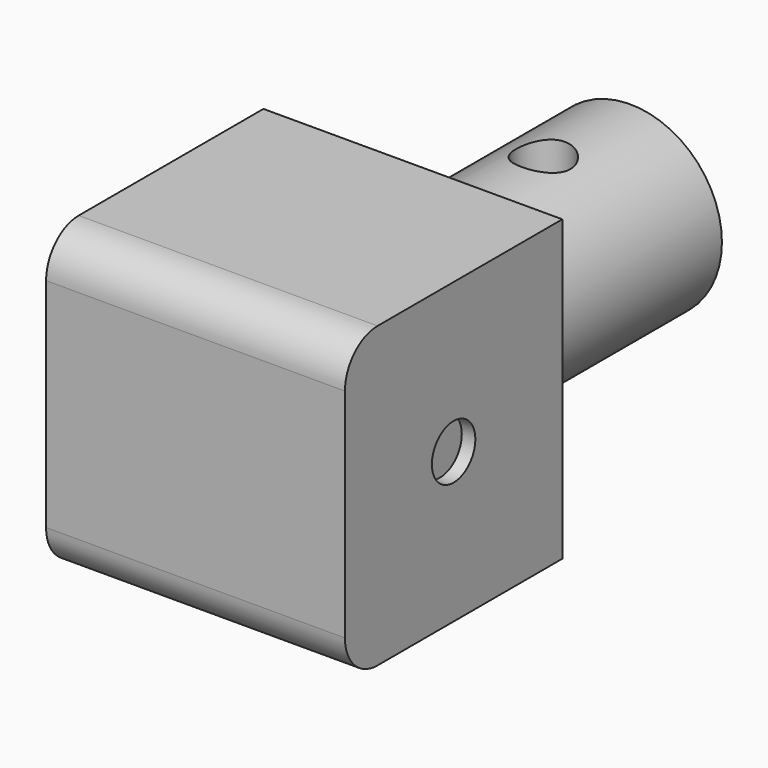
from build123d import *

# Parameters (mm, degrees)
F0_R      = 6.75
F1_DEPTH  = 20
F2_W      = 22
F2_H      = 22
F3_DEPTH  = 20
F4_R      = 3
F6_DEPTH  = 1
F7_R      = 2
F8_DEPTH  = 1
F10_DEPTH = 25


with BuildPart() as f1:
    # F0 (on Front) → F1 (new body)
    with BuildSketch(Plane.XZ):
        Circle(F0_R)
    extrude(amount=F1_DEPTH)

    # F2 (on face) → F3 (join)
    with BuildSketch(Plane.XZ.offset(20)):
        Rectangle(F2_W, F2_H)
    extrude(amount=F3_DEPTH)

    # F4
    f4_edges = [f1.edges().sort_by_distance(p)[0] for p in [
        (0, -40, 11),
        (0, -40, -11),
    ]]
    fillet(f4_edges, radius=F4_R)

    # F5 (on face) → F6 (cut)
    with BuildSketch(Plane.YZ.offset(11)):
        with BuildLine():
            ThreePointArc((-32, 0), (-30, -2), (-28, 0))
            ThreePointArc((-28, 0), (-30, 2), (-32, 0))
        make_face()
    extrude(amount=-F6_DEPTH, mode=Mode.SUBTRACT)

    # F7 (on face) → F8 (cut)
    with BuildSketch(Plane(origin=(-11, 0, 0), x_dir=(0, -1, 0), z_dir=(-1, 0, 0))):
        with Locations((30, 0)):
            Circle(F7_R)
    extrude(amount=-F8_DEPTH, mode=Mode.SUBTRACT)

    # F9 (on face) → F10 (cut)
    with BuildSketch(Plane.XY.offset(11)):
        with BuildLine():
            ThreePointArc((2, -8), (-1.414214, -6.585786), (0, -10))
            ThreePointArc((0, -10), (1.414214, -9.414214), (2, -8))
        make_face()
    extrude(amount=-F10_DEPTH, mode=Mode.SUBTRACT)


solid = f1.part
